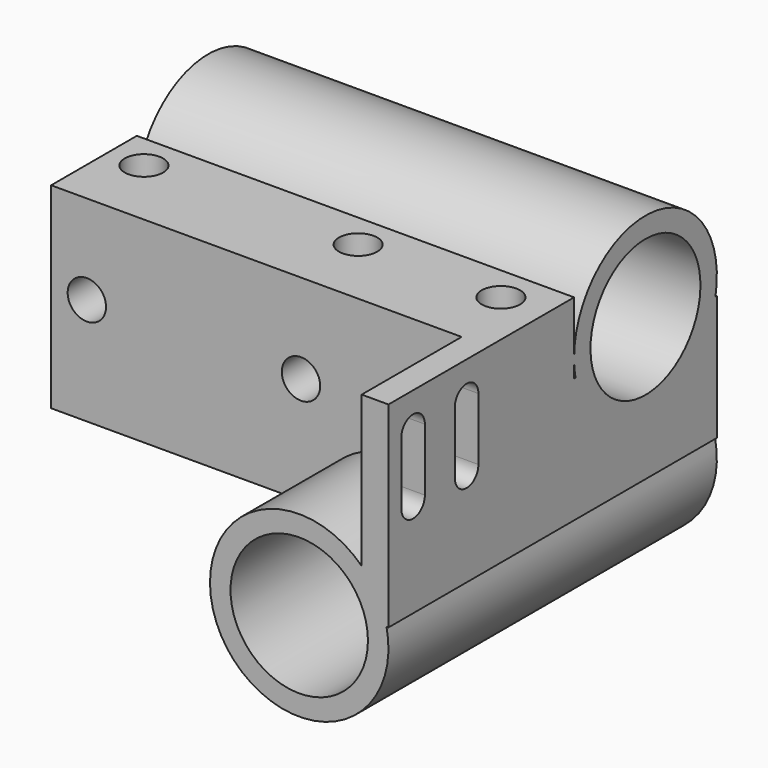
from build123d import *

# Parameters (mm, degrees)
SKETCH005_W     = 49
SKETCH005_H     = 22
PAD001_DEPTH    = 12
SKETCH006_R     = 2.15
POCKET004_DEPTH = 8
SKETCH007_R     = 2.15
POCKET005_DEPTH = 6
PAD002_DEPTH    = 14
SKETCH009_R     = 2.15
POCKET006_DEPTH = 6
SKETCH010_W     = 3
SKETCH010_H     = 22
PAD003_DEPTH    = 14
POCKET007_DEPTH = 49.001
SKETCH012_R     = 10
PAD004_DEPTH    = 49
SKETCH013_R     = 10
PAD005_DEPTH    = 46
SKETCH014_R     = 7.7
POCKET008_DEPTH = 46.001
SKETCH015_R     = 7.7
POCKET009_DEPTH = 49.001


with BuildPart() as part:
    # Sketch005 → Pad001 (new body)
    with BuildSketch(Plane.XZ):
        Rectangle(SKETCH005_W, SKETCH005_H)
    extrude(amount=PAD001_DEPTH)

    # Sketch006 (on Face1 of Pad001) → Pocket004 (cut)
    with BuildSketch(Plane(origin=(0, 0, 11), x_dir=(-1, 0, 0), z_dir=(0, 0, 1))):
        with Locations((20.5, 4)):
            Circle(SKETCH006_R)
        with Locations((-19.5, 4)):
            Circle(SKETCH006_R)
        with Locations((-3.5, 4)):
            Circle(SKETCH006_R)
    extrude(amount=-POCKET004_DEPTH, mode=Mode.SUBTRACT)

    # Sketch007 (on Face4 of Pocket004) → Pocket005 (cut)
    with BuildSketch(Plane.XZ.offset(12)):
        with Locations((-20.5, 1)):
            Circle(SKETCH007_R)
        with Locations((3.5, 1)):
            Circle(SKETCH007_R)
    extrude(amount=-POCKET005_DEPTH, mode=Mode.SUBTRACT)

    # Sketch008 (on Face8 of Pocket005) → Pad002 (join)
    with BuildSketch(Plane(origin=(0, 0, -11), x_dir=(1, 0, 0), z_dir=(0, 0, -1))):
        Polygon((-24.5, 0), (-24.5, -9.75), (4.5, -9.75), (4.5, -20), (24.5, -20), (24.5, 0), align=None)
    extrude(amount=-PAD002_DEPTH)

    # Sketch009 (on Face10 of Pad002) → Pocket006 (cut)
    with BuildSketch(Plane(origin=(-24.5, 0, 0), x_dir=(0, 0, -1), z_dir=(-1, 0, 0))):
        with Locations((7, -4.25)):
            Circle(SKETCH009_R)
    extrude(amount=-POCKET006_DEPTH, mode=Mode.SUBTRACT)

    # Sketch010 (on Face4 of Pocket006) → Pad003 (join)
    with BuildSketch(Plane.XZ.offset(12)):
        with Locations((23, 0)):
            Rectangle(SKETCH010_W, SKETCH010_H)
    extrude(amount=PAD003_DEPTH)

    # Sketch011 (on Face16 of Pad003) → Pocket007 (cut, through all)
    with BuildSketch(Plane(origin=(24.5, 0, 0), x_dir=(0, 0, 1), z_dir=(1, 0, 0))):
        with BuildLine():
            ThreePointArc((6.984358, 20.901636), (8.634358, 22.551636), (6.984358, 24.201636))
            Line((6.984358, 24.201636), (-0.015642, 24.201636))
            ThreePointArc((-0.015642, 24.201636), (-1.665642, 22.551636), (-0.015642, 20.901636))
            Line((6.984358, 20.901636), (-0.015642, 20.901636))
        make_face()
        with BuildLine():
            ThreePointArc((6.953982, 13.401636), (8.603982, 15.051636), (6.953982, 16.701636))
            Line((6.953982, 16.701636), (-0.046018, 16.701636))
            ThreePointArc((-0.046018, 16.701636), (-1.696018, 15.051636), (-0.046018, 13.401636))
            Line((6.953982, 13.401636), (-0.046018, 13.401636))
        make_face()
    extrude(amount=-POCKET007_DEPTH, mode=Mode.SUBTRACT)

    # Sketch012 (on Face18 of Pocket007) → Pad004 (join)
    with BuildSketch(Plane(origin=(24.5, 0, 0), x_dir=(0, 0, 1), z_dir=(1, 0, 0))):
        with Locations((5, -10)):
            Circle(SKETCH012_R)
    extrude(amount=-PAD004_DEPTH)

    # Sketch013 (on Face40 of Pad004) → Pad005 (join)
    with BuildSketch(Plane(origin=(0, 20, 0), x_dir=(1, 0, 0), z_dir=(0, 1, 0))):
        with Locations((14.5, 13.055578)):
            Circle(SKETCH013_R)
    extrude(amount=-PAD005_DEPTH)

    # Sketch014 (on Face29 of Pad005) → Pocket008 (cut, through all)
    with BuildSketch(Plane(origin=(0, 20, 0), x_dir=(1, 0, 0), z_dir=(0, 1, 0))):
        with Locations((14.5, 13.055578)):
            Circle(SKETCH014_R)
    extrude(amount=-POCKET008_DEPTH, mode=Mode.SUBTRACT)

    # Sketch015 (on Face55 of Pocket008) → Pocket009 (cut, through all)
    with BuildSketch(Plane(origin=(24.5, 0, 0), x_dir=(0, 0, 1), z_dir=(1, 0, 0))):
        with Locations((5, -10)):
            Circle(SKETCH015_R)
    extrude(amount=-POCKET009_DEPTH, mode=Mode.SUBTRACT)


solid = part.part
